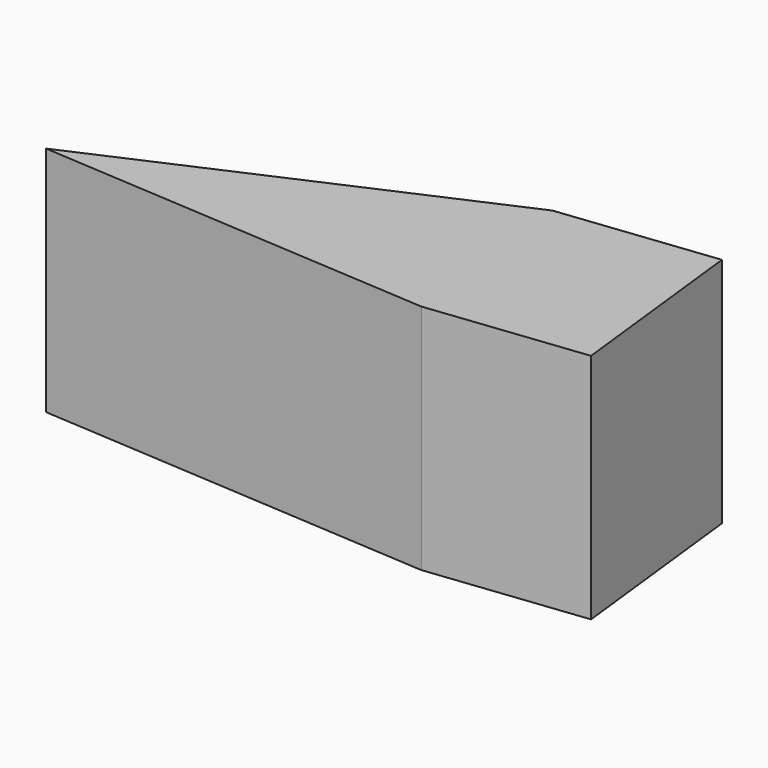
from build123d import *

# Parameters (mm, degrees)
F1_DEPTH = 76.708
F2_DEPTH = 77.47
F3_DEPTH = 38.1


with BuildPart() as f1:
    # F0 (on Top) → F1 (new body)
    with BuildSketch(Plane.XY):
        Polygon((135.3836357594, 21.8498203903), (-49.6764220297, -59.8627962172), (146.1022645235, -72.4891498685), align=None)
    extrude(amount=F1_DEPTH)

    # F2 (add): a face of the model
    f2_faces = [f1.faces().sort_by_distance(p)[0] for p in [
        (140.7429501414, -25.3196647391, 38.354),
    ]]
    extrude(f2_faces, amount=F2_DEPTH)

    # F3 (add): a face of the model
    f3_faces = [f1.faces().sort_by_distance(p)[0] for p in [
        (122.6602477732, -29.7614131006, 76.708),
    ]]
    extrude(f3_faces, amount=F3_DEPTH)


solid = f1.part
